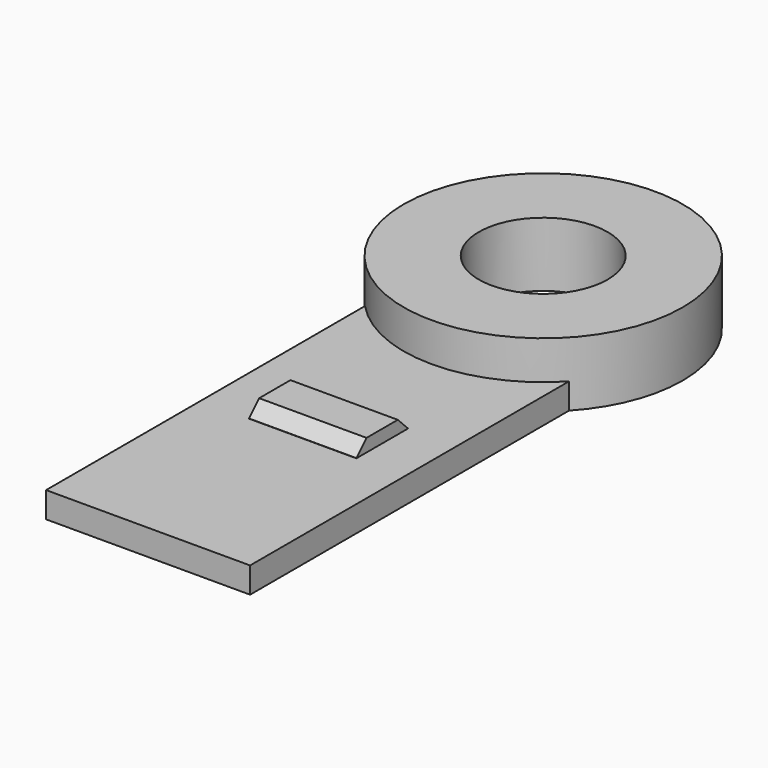
from build123d import *

# Parameters (mm, degrees)
SKETCH_R     = 6.5
PAD_DEPTH    = 3
SKETCH001_R  = 3
POCKET_DEPTH = 3
SKETCH002_W  = 9.5
SKETCH002_H  = 19
PAD001_DEPTH = 1.2
SKETCH004_W  = 5
SKETCH004_H  = 3
PAD002_DEPTH = 0.6
CHAMFER_SIZE = 0.59


with BuildPart() as part:
    # Sketch → Pad (new body)
    with BuildSketch(Plane.XY):
        Circle(SKETCH_R)
    extrude(amount=PAD_DEPTH)

    # Sketch001 (on Face3 of Pad) → Pocket (cut)
    with BuildSketch(Plane.XY.offset(3)):
        Circle(SKETCH001_R)
    extrude(amount=-POCKET_DEPTH, mode=Mode.SUBTRACT)

    # Sketch002 → Pad001 (join)
    with BuildSketch(Plane.XY):
        with Locations((0, -13.5)):
            Rectangle(SKETCH002_W, SKETCH002_H)
    extrude(amount=PAD001_DEPTH)

    # Sketch004 (on Face4 of Pad001) → Pad002 (join)
    with BuildSketch(Plane.XY.offset(1.2)):
        with Locations((0, -12.5)):
            Rectangle(SKETCH004_W, SKETCH004_H)
    extrude(amount=PAD002_DEPTH)

    # Chamfer
    chamfer_edges = [part.edges().sort_by_distance(p)[0] for p in [
        (0, -14, 1.8),
        (0, -11, 1.8),
    ]]
    chamfer(chamfer_edges, length=CHAMFER_SIZE)


solid = part.part
